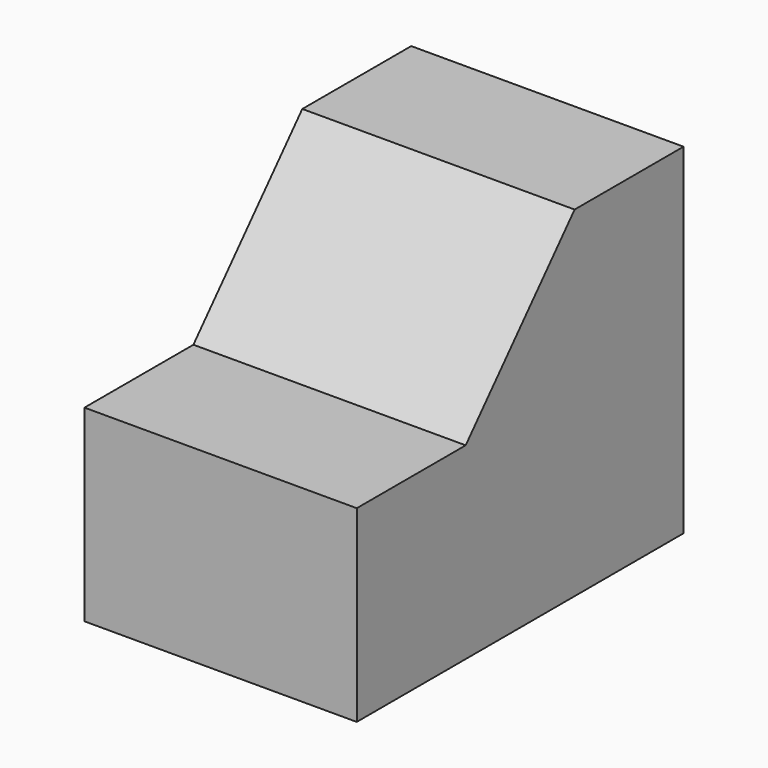
from build123d import *

# Parameters (mm, degrees)
F0_W     = 25.4
F0_H     = 38.1
F1_DEPTH = 31.75
F3_DEPTH = 25.4


with BuildPart() as f1:
    # F0 (on Top) → F1 (new body)
    with BuildSketch(Plane.XY):
        with Locations((12.7, 19.05)):
            Rectangle(F0_W, F0_H)
        with Locations((12.7, 19.05)):
            Rectangle(F0_W, F0_H)
    extrude(amount=F1_DEPTH)

    # F2 (on face) → F3 (cut)
    with BuildSketch(Plane(origin=(0, 0, 0), x_dir=(0, -1, 0), z_dir=(-1, 0, 0))):
        Polygon((0, 31.75), (-25.4, 31.75), (-12.7, 17.550968), (0, 17.550968), align=None)
    extrude(amount=-F3_DEPTH, mode=Mode.SUBTRACT)


solid = f1.part
